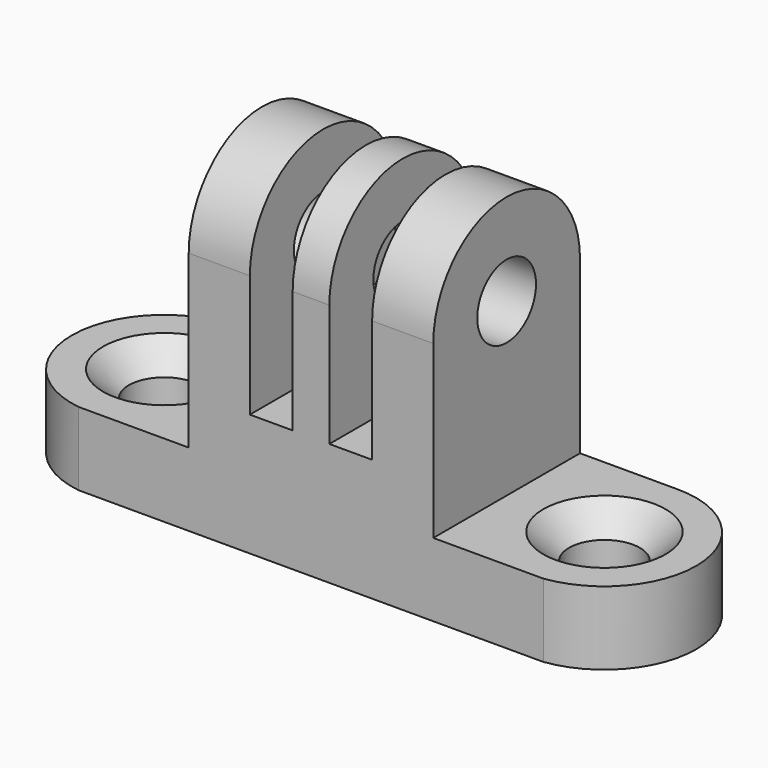
from build123d import *

# Parameters (mm, degrees)
F0_R           = 3
F1_DEPTH       = 20
F2_W           = 3.5
F2_H           = 20
F3_DEPTH       = 25
F3_DEPTH_BACK  = 10
F5_DEPTH       = 6
F7_D           = 5.8
F7_CSINK_D     = 10
F7_CSINK_ANGLE = 90


with BuildPart() as f1:
    # F0 (on Right) → F1 (new body)
    with BuildSketch(Plane.YZ):
        with BuildLine():
            Line((7.5, -20), (7.5, 0))
            ThreePointArc((7.5, 0), (0, 7.5), (-7.5, 0))
            Line((-7.5, 0), (-7.5, -20))
            Line((-7.5, -20), (7.5, -20))
        make_face()
        Circle(F0_R, mode=Mode.SUBTRACT)
    extrude(amount=F1_DEPTH)

    # F2 (on Front) → F3 (cut, two sides)
    with BuildSketch(Plane.XZ) as f3_sk:
        with Locations((6.75, 0)):
            Rectangle(F2_W, F2_H)
        with Locations((13.25, 0)):
            Rectangle(F2_W, F2_H)
    extrude(amount=F3_DEPTH, mode=Mode.SUBTRACT)
    extrude(f3_sk.sketch, amount=-F3_DEPTH_BACK, mode=Mode.SUBTRACT)

    # F4 (on face) → F5 (join)
    with BuildSketch(Plane(origin=(0, 0, -20), x_dir=(1, 0, 0), z_dir=(0, 0, -1))):
        with BuildLine():
            Line((20, 7.5), (20, -7.5))
            Line((20, -7.5), (28, -7.5))
            ThreePointArc((28, -7.5), (35.516648, -0.467777), (29, 7.5))
            Line((29, 7.5), (20, 7.5))
        make_face()
        with BuildLine():
            Line((-8, -7.5), (0, -7.5))
            Line((0, -7.5), (0, 7.5))
            Line((0, 7.5), (-9, 7.5))
            ThreePointArc((-9, 7.5), (-15.516648, -0.467777), (-8, -7.5))
        make_face()
    extrude(amount=-F5_DEPTH)

    # F7 (through all)
    with Locations(Plane.XY.offset(-14)):
        with Locations((-8, 0), (28, 0)):
            CounterSinkHole(F7_D / 2, F7_CSINK_D / 2, counter_sink_angle=F7_CSINK_ANGLE)


solid = f1.part
